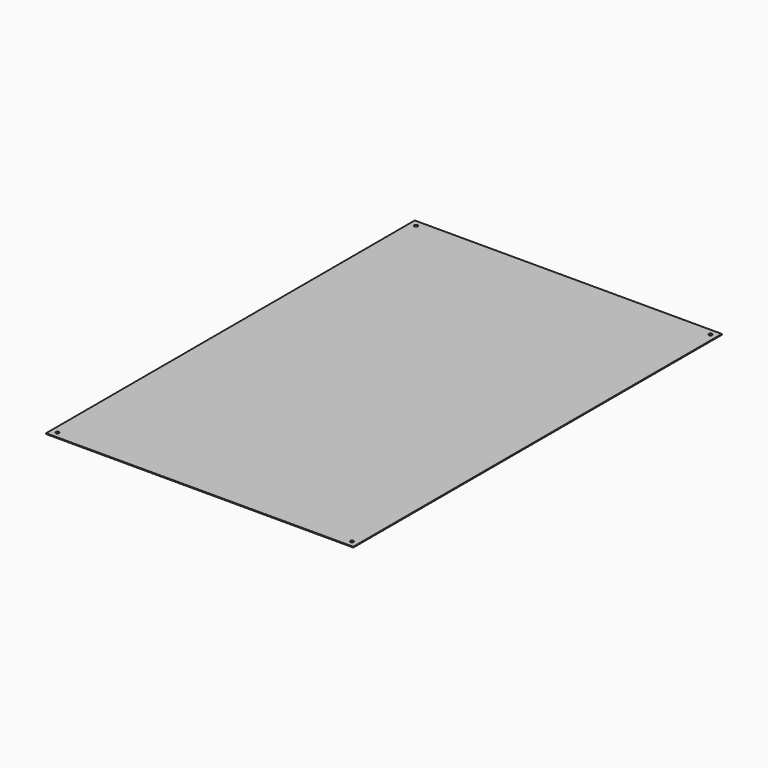
from build123d import *

# Parameters (mm, degrees)
SKETCH_W  = 609.6
SKETCH_H  = 914.4
SKETCH_R  = 3.3
PAD_DEPTH = 1.519


with BuildPart() as part:
    # Sketch → Pad (new body)
    with BuildSketch(Plane.XY):
        Rectangle(SKETCH_W, SKETCH_H)
        with Locations((292.1, 444.5)):
            Circle(SKETCH_R, mode=Mode.SUBTRACT)
        with Locations((-292.1, 444.5)):
            Circle(SKETCH_R, mode=Mode.SUBTRACT)
        with Locations((-292.1, -444.5)):
            Circle(SKETCH_R, mode=Mode.SUBTRACT)
        with Locations((292.1, -444.5)):
            Circle(SKETCH_R, mode=Mode.SUBTRACT)
    extrude(amount=PAD_DEPTH)


solid = part.part
